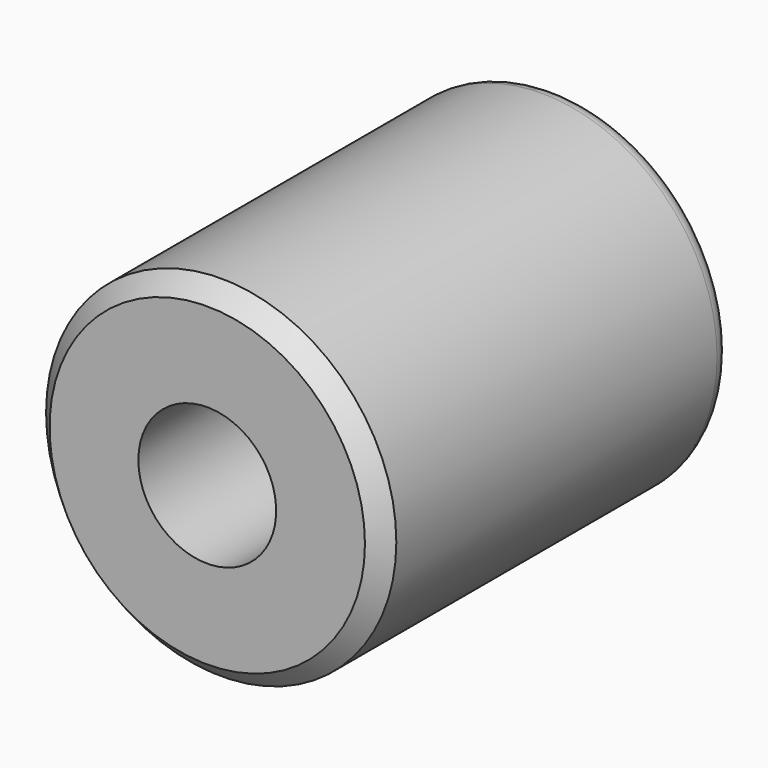
from build123d import *

# Parameters (mm, degrees)
F0_R     = 51.037505
F1_DEPTH = 63.5
F2_SIZE  = 5.08
F3_R     = 5.08
F4_R     = 20.080575
F5_DEPTH = 127.001


with BuildPart() as f1:
    # F0 (on Front) → F1 (new body, symmetric)
    with BuildSketch(Plane.XZ):
        Circle(F0_R)
    extrude(amount=F1_DEPTH, both=True)

    # F2
    f2_edges = [f1.edges().sort_by_distance(p)[0] for p in [
        (-51.037505, -63.5, 0),
    ]]
    chamfer(f2_edges, length=F2_SIZE)

    # F3
    f3_edges = [f1.edges().sort_by_distance(p)[0] for p in [
        (-51.037505, 63.5, 0),
    ]]
    fillet(f3_edges, radius=F3_R)

    # F4 (on face) → F5 (cut, through all)
    with BuildSketch(Plane(origin=(0, 63.5, 0), x_dir=(-1, 0, 0), z_dir=(0, 1, 0))):
        Circle(F4_R)
    extrude(amount=-F5_DEPTH, mode=Mode.SUBTRACT)


solid = f1.part
